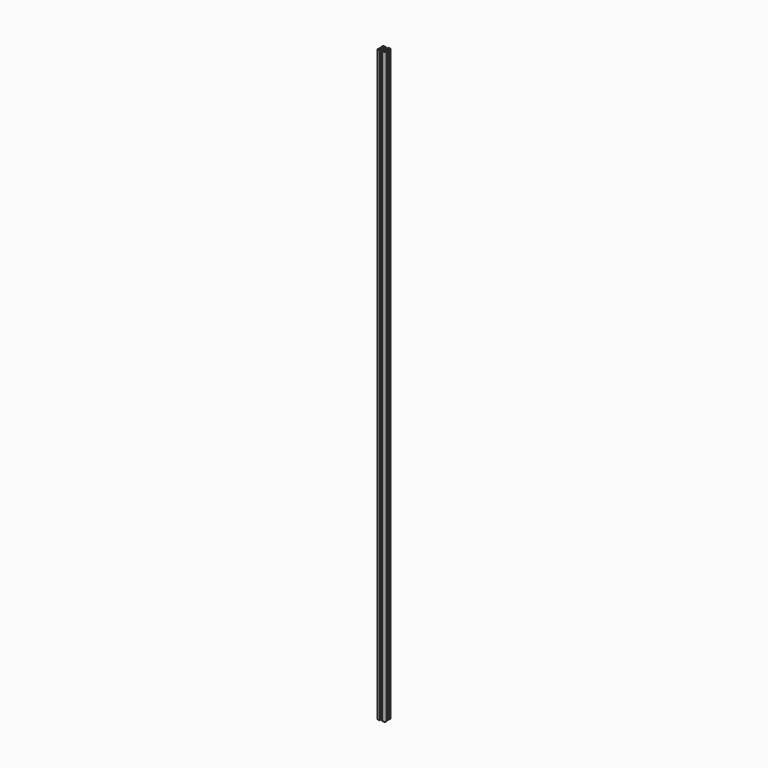
from build123d import *

# Parameters (mm, degrees)
F0_R     = 3.4
F1_DEPTH = 2300
F2_R     = 3


with BuildPart() as f1:
    # F0 (on Top) → F1 (new body)
    with BuildSketch(Plane.XY):
        Polygon((-4.1, 15), (-15, 15), (-15, 4.1), (-12.8, 4.1), (-12.8, 8.25), (-9.664214, 8.25), (-5.6, 4.185786), (-5.6, -4.185786), (-9.664214, -8.25), (-12.8, -8.25), (-12.8, -4.1), (-15, -4.1), (-15, -15), (-4.1, -15), (-4.1, -12.8), (-8.25, -12.8), (-8.25, -9.664214), (-4.185786, -5.6), (4.185786, -5.6), (8.25, -9.664214), (8.25, -12.8), (4.1, -12.8), (4.1, -15), (15, -15), (15, -4.1), (12.8, -4.1), (12.8, -8.25), (9.664214, -8.25), (5.6, -4.185786), (5.6, 4.185786), (9.664214, 8.25), (12.8, 8.25), (12.8, 4.1), (15, 4.1), (15, 15), (4.1, 15), (4.1, 12.8), (8.25, 12.8), (8.25, 9.664214), (4.185786, 5.6), (-4.185786, 5.6), (-8.25, 9.664214), (-8.25, 12.8), (-4.1, 12.8), align=None)
        Circle(F0_R, mode=Mode.SUBTRACT)
    extrude(amount=F1_DEPTH)

    # F2
    f2_edges = [f1.edges().sort_by_distance(p)[0] for p in [
        (15, -15, 1150),
        (15, 15, 1150),
        (-15, -15, 1150),
        (-15, 15, 1150),
    ]]
    fillet(f2_edges, radius=F2_R)


solid = f1.part
